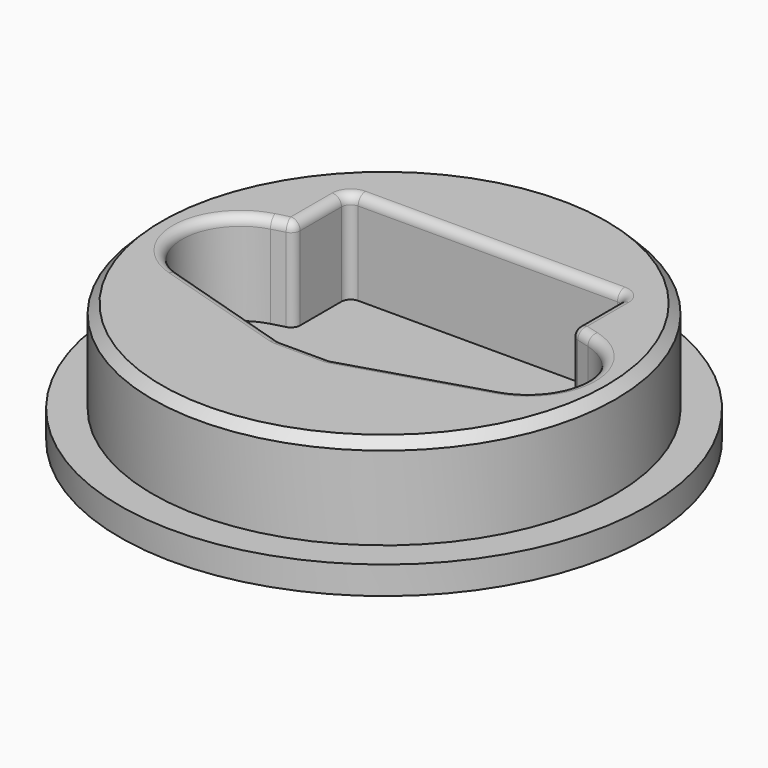
from build123d import *

# Parameters (mm, degrees)
SKETCH_R          = 25
PAD_DEPTH         = 10
SKETCH001_R       = 28.5
PAD001_DEPTH      = 3
SKETCH002_R       = 4.25
SKETCH002_R_2     = 2.65
POCKET_DEPTH      = 10.501
POCKET_DEPTH_BACK = -2.501
FILLET_R          = 1
FILLET001_R       = 1
CHAMFER_SIZE      = 1


with BuildPart() as part:
    # Sketch → Pad (new body)
    with BuildSketch(Plane.XY):
        Circle(SKETCH_R)
        with BuildLine():
            ThreePointArc((17.347253, -6.023093), (21.799021, 0.111063), (17.133775, 6.08447))
            Line((15, 6.657422), (17.133775, 6.08447))
            Line((15, 14), (15, 6.657422))
            Line((-15, 14), (15, 14))
            Line((-15, 14), (-15, 6.657422))
            Line((-17.133775, 6.08447), (-15, 6.657422))
            ThreePointArc((-17.133775, 6.08447), (-21.799021, 0.111063), (-17.347253, -6.023093))
            Line((-17.347253, -6.023093), (-2.75, -10.5))
            Line((-2.75, -10.5), (2.75, -10.5))
            Line((17.347253, -6.023093), (2.75, -10.5))
        make_face(mode=Mode.SUBTRACT)
    extrude(amount=PAD_DEPTH)

    # Sketch001 (on Face12 of Pad) → Pad001 (join)
    with BuildSketch(Plane(origin=(0, 0, 0), x_dir=(1, 0, 0), z_dir=(0, 0, -1))):
        Circle(SKETCH001_R)
    extrude(amount=PAD001_DEPTH)

    # Sketch002 → Pocket (cut, two sides)
    with BuildSketch(Plane(origin=(0, 0, -0.5), x_dir=(1, 0, 0), z_dir=(0, 0, -1))) as pocket_sk:
        Circle(SKETCH002_R)
        with Locations((-15.75, 0)):
            Circle(SKETCH002_R_2)
        with Locations((15.75, 0)):
            Circle(SKETCH002_R_2)
    extrude(amount=-POCKET_DEPTH, mode=Mode.SUBTRACT)
    extrude(pocket_sk.sketch, amount=-POCKET_DEPTH_BACK, mode=Mode.SUBTRACT)

    # Fillet
    fillet_edges = [part.edges().sort_by_distance(p)[0] for p in [
        (15, 6.657422, 5),
        (15, 14, 5),
        (-15, 6.657422, 5),
        (-15, 14, 5),
        (-2.75, -10.5, 5),
        (2.75, -10.5, 5),
    ]]
    fillet(fillet_edges, radius=FILLET_R)

    # Fillet001
    fillet001_edges = [part.edges().sort_by_distance(p)[0] for p in [
        (0, 14, 10),
        (-15, 10.212165, 10),
        (-21.799021, 0.111063, 10),
        (-10.120283, -8.23957, 10),
        (0, -10.5, 10),
        (10.120283, -8.23957, 10),
        (21.799021, 0.111063, 10),
        (15, 10.212165, 10),
        (14.707107, 13.707107, 10),
        (15.206486, 6.815778, 10),
        (16.437223, 6.271505, 10),
        (-16.437223, 6.271505, 10),
        (-15.206486, 6.815778, 10),
        (-14.707107, 13.707107, 10),
        (-2.748344, -10.488951, 10),
        (2.748344, -10.488951, 10),
    ]]
    fillet(fillet001_edges, radius=FILLET001_R)

    # Chamfer
    chamfer_edges = [part.edges().sort_by_distance(p)[0] for p in [
        (-25, 0, 10),
    ]]
    chamfer(chamfer_edges, length=CHAMFER_SIZE)


solid = part.part
